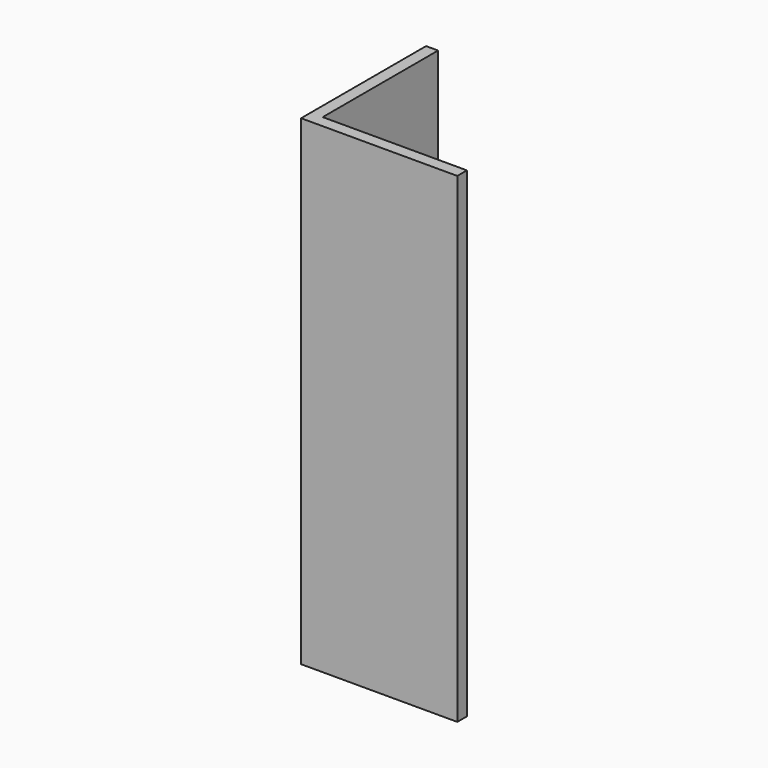
from build123d import *

# Parameters (mm, degrees)
F0_W     = 28.575
F0_H     = 31.75
F1_DEPTH = 1.5875
F3_DEPTH = 3.175
F4_W     = 38.1
F4_H     = 127
F4_W_2   = 3.175
F5_DEPTH = 3.175
F6_R     = 4
F6_R_2   = 1.85
F7_DEPTH = 25.4
F8_W     = 1.5875
F8_H     = 31.75
F9_DEPTH = 25.4


with BuildPart() as f1:
    # F0 (on Front) → F1 (new body)
    with BuildSketch(Plane.XZ):
        with Locations((-18.3960961165, 7.6425911009)):
            Rectangle(F0_W, F0_H)
    extrude(amount=F1_DEPTH)

    # F2 (on face) → F3 (join)
    with BuildSketch(Plane.YZ.offset(-4.1085961165)):
        Polygon((-38.1, -52.6824088991), (0, -52.6824088991), (0, -8.2324088991), (-1.5875, -8.2324088991), (-1.5875, 23.5175911009), (0, 23.5175911009), (0, 74.3175911009), (-38.1, 74.3175911009), align=None)
    extrude(amount=-F3_DEPTH)

    # F4 (on face) → F5 (join)
    with BuildSketch(Plane.XZ.offset(38.1)):
        with Locations((14.9414038835, 10.8175911009)):
            Rectangle(F4_W, F4_H)
        with Locations((-5.6960961165, 10.8175911009)):
            Rectangle(F4_W_2, F4_H)
    extrude(amount=F5_DEPTH)

    # F6 (on face) → F7 (cut)
    with BuildSketch(Plane.XZ.offset(1.5875)):
        with Locations((-16.6835961165, 7.6425911009)):
            Circle(F6_R)
        with Locations((-22.340450366, 13.2994453504)):
            Circle(F6_R_2)
        with Locations((-16.6835961165, 15.6425911009)):
            Circle(F6_R_2)
        with Locations((-11.026741867, 13.2994453504)):
            Circle(F6_R_2)
        with Locations((-11.026741867, 1.9857368514)):
            Circle(F6_R_2)
        with Locations((-16.6835961165, -0.3574088991)):
            Circle(F6_R_2)
        with Locations((-22.340450366, 1.9857368514)):
            Circle(F6_R_2)
        with Locations((-24.6835961165, 7.6425911009)):
            Circle(F6_R_2)
    extrude(amount=-F7_DEPTH, mode=Mode.SUBTRACT)

    # F8 (on face) → F9 (cut)
    with BuildSketch(Plane(origin=(-32.6835961165, 0, 0), x_dir=(0, -1, 0), z_dir=(-1, 0, 0))):
        with Locations((0.79375, 7.6425911009)):
            Rectangle(F8_W, F8_H)
    extrude(amount=-F9_DEPTH, mode=Mode.SUBTRACT)


solid = f1.part
